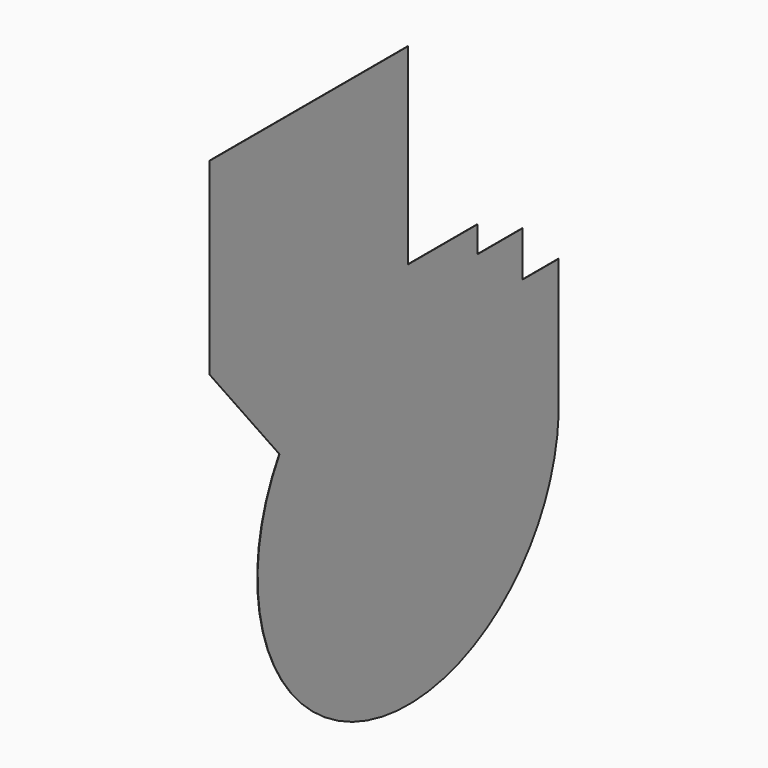
from build123d import *

# Parameters (mm, degrees)
PAD_DEPTH = 1


with BuildPart() as part:
    # Sketch → Pad (new body)
    with BuildSketch(Plane.YZ.offset(-500)):
        with BuildLine():
            ThreePointArc((-427.08313, 260), (-481.76976, -133.783027), (-231.870564, -442.985374))
            ThreePointArc((-231.870564, -442.985374), (17.120198, -499.706813), (261.645072, -426.077289))
            ThreePointArc((261.645072, -426.077289), (430.453315, -254.381492), (499.438281, -23.693945))
            Line((499.438281, 340), (499.438281, -23.693945))
            Line((380, 340), (499.438281, 340))
            Line((380, 460), (380, 340))
            Line((230, 460), (380, 460))
            Line((230, 530), (230, 460))
            Line((0, 530), (230, 530))
            Line((0, 1040), (0, 530))
            Line((-658.874021, 1040), (0, 1040))
            Line((-658.874021, 1040), (-658.874021, 540))
            Line((-427.08313, 260), (-658.874021, 540))
        make_face()
    extrude(amount=-PAD_DEPTH)


solid = part.part
